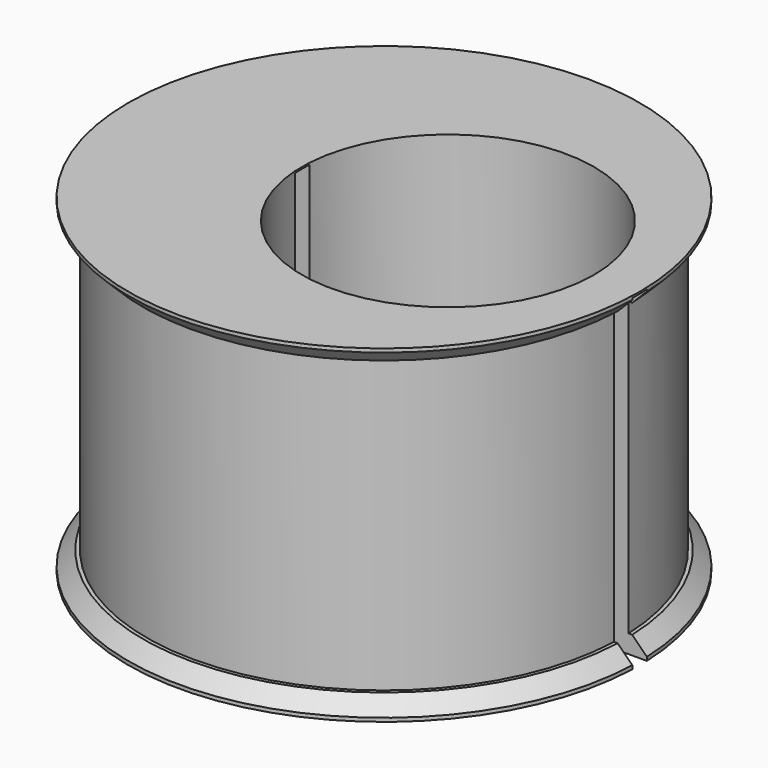
from build123d import *

# Parameters (mm, degrees)
SKETCH_R        = 13
PAD_DEPTH       = 16
SKETCH001_R     = 14
PAD001_DEPTH    = 1
SKETCH002_R     = 14
PAD002_DEPTH    = 1
SKETCH003_R     = 8
POCKET_DEPTH    = 18.001
SKETCH004_W     = 70
SKETCH004_H     = 1
POCKET001_DEPTH = 17.9
CHAMFER_SIZE    = 0.8


with BuildPart() as part:
    # Sketch → Pad (new body)
    with BuildSketch(Plane.XY):
        Circle(SKETCH_R)
    extrude(amount=PAD_DEPTH)

    # Sketch001 → Pad001 (new body)
    with BuildSketch(Plane.XY.offset(16)):
        Circle(SKETCH001_R)
    extrude(amount=PAD001_DEPTH)

    # Sketch002 → Pad002 (new body)
    with BuildSketch(Plane(origin=(0, 0, 0), x_dir=(1, 0, 0), z_dir=(0, 0, -1))):
        Circle(SKETCH002_R)
    extrude(amount=PAD002_DEPTH)

    # Sketch003 → Pocket (cut, through all)
    with BuildSketch(Plane.XY.offset(17)):
        with Locations((3.5, 0)):
            Circle(SKETCH003_R)
    extrude(amount=-POCKET_DEPTH, mode=Mode.SUBTRACT)

    # Sketch004 → Pocket001 (cut)
    with BuildSketch(Plane(origin=(0, 0, -1), x_dir=(1, 0, 0), z_dir=(0, 0, -1))):
        Rectangle(SKETCH004_W, SKETCH004_H)
    extrude(amount=-POCKET001_DEPTH, mode=Mode.SUBTRACT)

    # Chamfer
    chamfer_edges = [part.edges().sort_by_distance(p)[0] for p in [
        (0, 14, 16),
        (0, -14, 16),
        (0, -14, 0),
        (0, 14, 0),
    ]]
    chamfer(chamfer_edges, length=CHAMFER_SIZE)


solid = part.part
